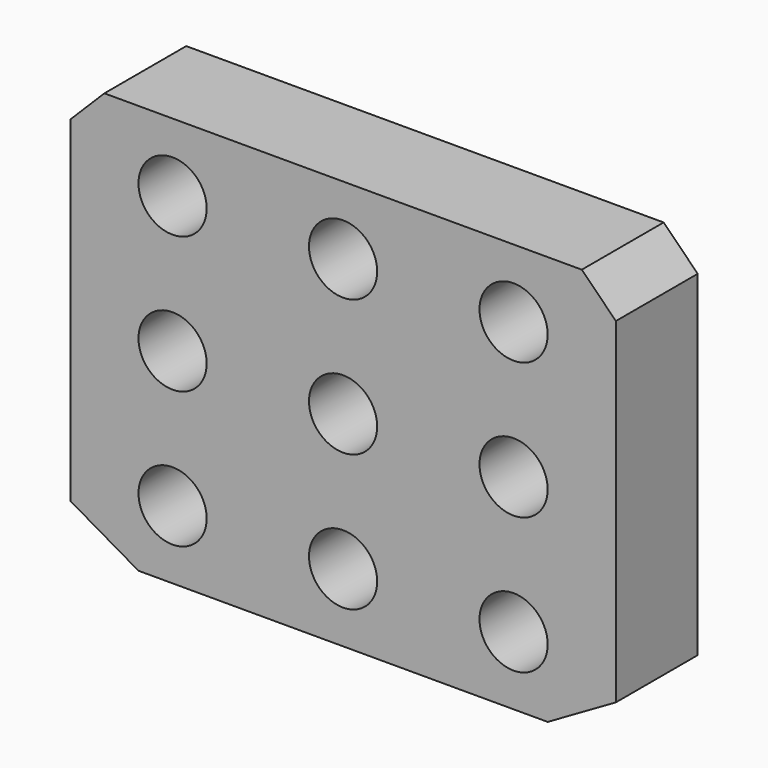
from build123d import *

# Parameters (mm, degrees)
F0_R     = 5
F1_DEPTH = 15


with BuildPart() as f1:
    # F0 (on Front) → F1 (new body)
    with BuildSketch(Plane.XZ):
        Polygon((35, 30), (0, 30), (-35, 30), (-40, 25), (-40, -24.226497), (-30, -30), (0, -30), (30, -30), (40, -24.226497), (40, 25), align=None)
        with Locations((-25, -20)):
            Circle(F0_R, mode=Mode.SUBTRACT)
        with Locations((0, -20)):
            Circle(F0_R, mode=Mode.SUBTRACT)
        with Locations((25, -20)):
            Circle(F0_R, mode=Mode.SUBTRACT)
        with Locations((-25, 0)):
            Circle(F0_R, mode=Mode.SUBTRACT)
        with Locations((-25, 20)):
            Circle(F0_R, mode=Mode.SUBTRACT)
        Circle(F0_R, mode=Mode.SUBTRACT)
        with Locations((25, 0)):
            Circle(F0_R, mode=Mode.SUBTRACT)
        with Locations((0, 20)):
            Circle(F0_R, mode=Mode.SUBTRACT)
        with Locations((25, 20)):
            Circle(F0_R, mode=Mode.SUBTRACT)
    extrude(amount=F1_DEPTH)


solid = f1.part
